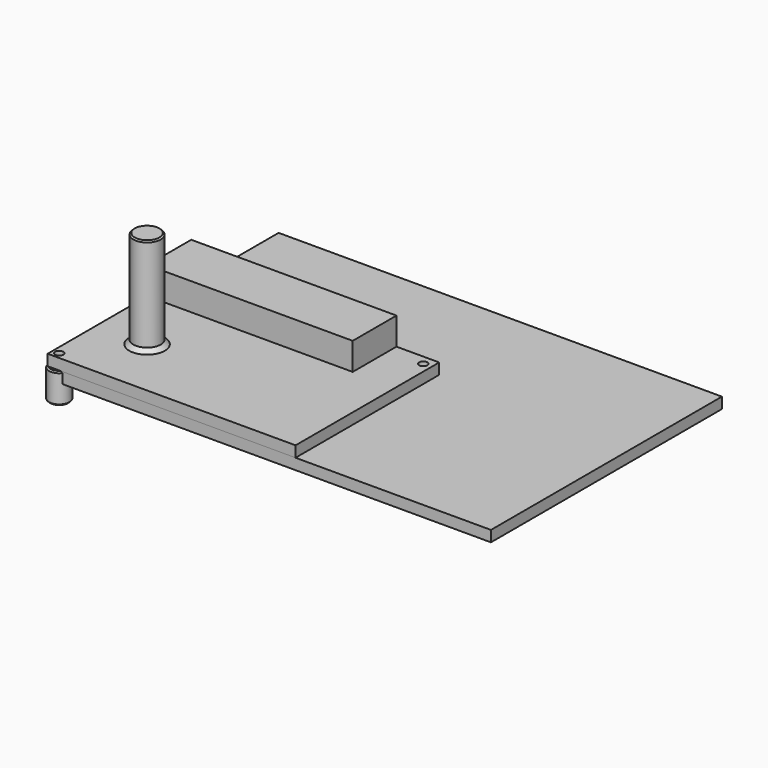
from build123d import *

# Parameters (mm, degrees)
F0_W      = 162
F0_H      = 105.5
F1_DEPTH  = 4
F2_W      = 90.6
F2_H      = 65.6
F2_R      = 1.5
F3_DEPTH  = 4
F4_W      = 75
F4_H      = 20
F5_DEPTH  = 10
F6_R      = 5
F7_DEPTH  = 35.8
F8_R      = 6.5
F8_R_2    = 5
F9_DEPTH  = 2
F9_TAPER  = 45
F10_SIZE  = 0.5
F11_R     = 3.75
F11_R_2   = 0.75
F12_DEPTH = 11
F14_SIZE  = 0.5


with BuildPart() as f1:
    # F0 (on Top) → F1 (new body)
    with BuildSketch(Plane.XY):
        Rectangle(F0_W, F0_H)
    extrude(amount=F1_DEPTH)


with BuildPart() as f3:
    # F2 (on face) → F3 (new body)
    with BuildSketch(Plane.XY.offset(4)):
        with Locations((-35.7, -19.95)):
            Rectangle(F2_W, F2_H)
        with Locations((-78.6, -50.45)):
            Circle(F2_R, mode=Mode.SUBTRACT)
        with Locations((6.6, 9.35)):
            Circle(F2_R, mode=Mode.SUBTRACT)
    extrude(amount=F3_DEPTH)

    # F4 (on face) → F5 (join)
    with BuildSketch(Plane.XY.offset(8)):
        with Locations((-43.5, 2.85)):
            Rectangle(F4_W, F4_H)
    extrude(amount=F5_DEPTH)


with BuildPart() as f7:
    # F6 (on face) → F7 (new body)
    with BuildSketch(Plane.XY.offset(8)):
        with Locations((-62.5183060765, -30.4331947118)):
            Circle(F6_R)
    extrude(amount=F7_DEPTH)

    # F8 (on face) → F9 (join)
    with BuildSketch(Plane(origin=(0, 0, 8), x_dir=(1, 0, 0), z_dir=(0, 0, -1))):
        with Locations((-62.5183060765, 30.4331947118)):
            Circle(F8_R)
        with Locations((-62.5183060765, 30.4331947118)):
            Circle(F8_R_2, mode=Mode.SUBTRACT)
        with Locations((-62.5183060765, 30.4331947118)):
            Circle(F8_R_2)
    extrude(amount=-F9_DEPTH, taper=F9_TAPER)

    # F10
    f10_edges = [f7.edges().sort_by_distance(p)[0] for p in [
        (-67.518306, -30.433195, 43.8),
    ]]
    chamfer(f10_edges, length=F10_SIZE)


with BuildPart() as f12:
    # F11 (on face) → F12 (new body)
    with BuildSketch(Plane(origin=(0, 0, 4), x_dir=(1, 0, 0), z_dir=(0, 0, -1))):
        with Locations((6.6, -9.35)):
            Circle(F11_R)
        with Locations((6.6, -9.35)):
            Circle(F11_R_2, mode=Mode.SUBTRACT)
    extrude(amount=F12_DEPTH)


with BuildPart() as f12b:
    # F11 (on face) → F12, piece 2 (new body)
    with BuildSketch(Plane(origin=(0, 0, 4), x_dir=(1, 0, 0), z_dir=(0, 0, -1))):
        with Locations((-78.6, 50.45)):
            Circle(F11_R)
        with Locations((-78.6, 50.45)):
            Circle(F11_R_2, mode=Mode.SUBTRACT)
    extrude(amount=F12_DEPTH)

    # F14
    f14_edges = [f12b.edges().sort_by_distance(p)[0] for p in [
        (-74.85, -50.45, -1.5),
        (-82.35, -50.45, 4),
        (-82.35, -50.45, -7),
    ]]
    chamfer(f14_edges, length=F14_SIZE)


solid = Compound([f1.part, f3.part, f7.part, f12b.part])
